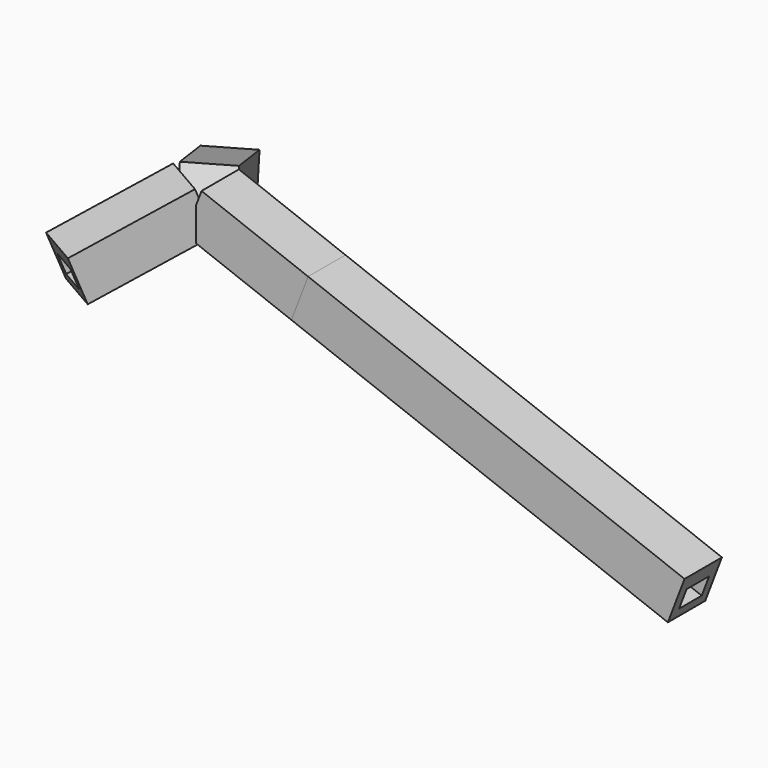
from build123d import *

# Parameters (mm, degrees)
F0_W     = 41.6124016047
F0_H     = 41.6124016047
F1_DEPTH = 101.6
F2_W     = 25.2156527713
F2_H     = 18.6845967546
F3_DEPTH = 25.4
F4_ANGLE = -20.9051575
F8_COUNT = 3
F9_DEPTH = 358.902


with BuildPart() as f1:
    # F0 (on Right) → F1 (new body)
    with BuildSketch(Plane.YZ):
        with Locations((-1.1438857764, 20.8062008023)):
            Rectangle(F0_W, F0_H)
    extrude(amount=F1_DEPTH)

    # F2 (on face) → F3 (cut)
    with BuildSketch(Plane.YZ.offset(101.6)):
        with Locations((-0.8418601938, 18.1932910345)):
            Rectangle(F2_W, F2_H)
    extrude(amount=-F3_DEPTH, mode=Mode.SUBTRACT)


with BuildPart() as f1_1:
    # F4: moved
    add(f1.part.rotate(Axis((0, -1.1438857764, 0), (0, -1, 0)), F4_ANGLE))

    # F6 (on Top) → F7 (revolve)
    with BuildSketch(Plane.XY):
        with BuildLine():
            Line((0, -2.9249929607), (0, 2.9249929607))
            ThreePointArc((0, 2.9249929607), (-2.9249929607, 0), (0, -2.9249929607))
        make_face()
    revolve(axis=Axis((0, 0, 0), (0, -1, 0)))

    # F8: F1 ×3 about axis
    f8_axis = Axis((0, 0, 36.8781723082), (0, 0, 1))


with BuildPart() as f1_2:
    add(f1_1.part)
    for i in range(1, F8_COUNT):
        add(f1_1.part.rotate(f8_axis, i * 360 / F8_COUNT))


with BuildPart() as f9:
    # F9 (new): a face of the model
    f9_faces = [f1_2.part.faces().sort_by_distance(p)[0] for p in [
        (102.3360237058, -21.3615983516, -16.8165467295),
    ]]
    extrude(f9_faces, amount=F9_DEPTH)


solid = Compound([f1_2.part, f9.part])
